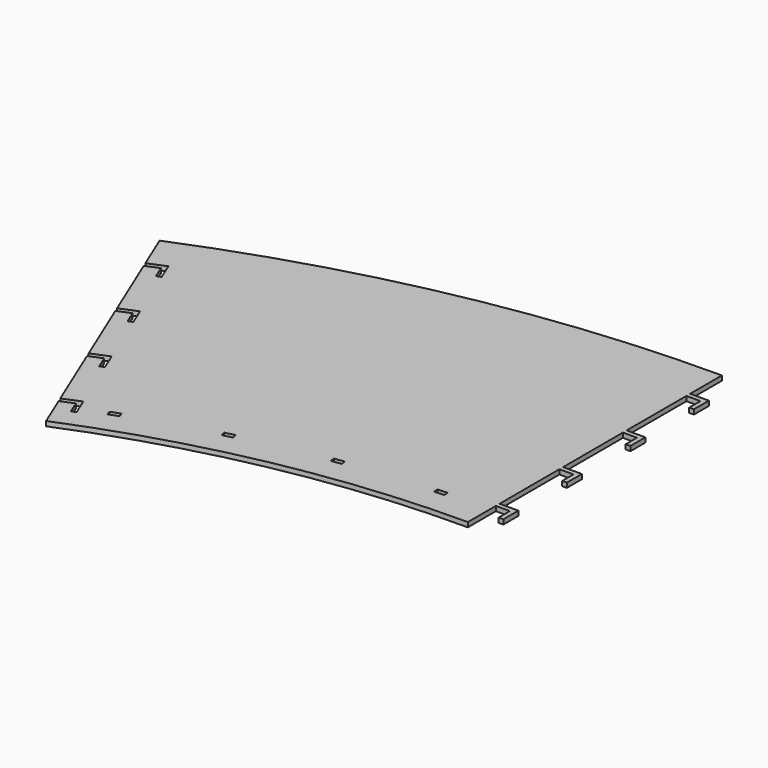
from build123d import *

# Parameters (mm, degrees)
F3_DEPTH = 3
F4_DEPTH = 3
F5_DEPTH = 3.001


with BuildPart() as f3:
    # F0 (on Top) → F3 (new body)
    with BuildSketch(Plane.XY):
        with BuildLine():
            ThreePointArc((-233.3171, 564.475152), (-118.935157, 599.10224), (0, 610.7938))
            Line((0, 610.7938), (0, 814.4002))
            ThreePointArc((0, 814.4002), (-158.581858, 798.811292), (-311.092701, 752.64136))
            Line((-311.092701, 752.64136), (-233.3171, 564.475152))
        make_face()
        Polygon((-214.805697, 592.145084), (-208.825489, 594.280408), (-207.816675, 591.455112), (-213.796883, 589.319788), align=None, mode=Mode.SUBTRACT)
        Polygon((-155.117917, 607.408719), (-155.845492, 610.319154), (-149.685071, 611.859189), (-148.957495, 608.948754), align=None, mode=Mode.SUBTRACT)
        Polygon((-94.95078, 619.670291), (-95.390136, 622.637944), (-89.108603, 623.567915), (-88.669247, 620.600262), align=None, mode=Mode.SUBTRACT)
        Polygon((-33.872704, 625.986869), (-34.019626, 628.983269), (-27.677246, 629.294254), (-27.530324, 626.297854), align=None, mode=Mode.SUBTRACT)
    extrude(amount=F3_DEPTH)

    # F2 (on Top) → F4 (join)
    with BuildSketch(Plane.XY):
        Polygon((9, 785.9494), (9, 776.9494), (12, 776.9494), (12, 788.9494), (0, 788.9494), (0, 785.9494), align=None)
        Polygon((9, 735.0478), (9, 726.0478), (12, 726.0478), (12, 738.0478), (0, 738.0478), (0, 735.0478), align=None)
        Polygon((12, 636.2446), (0, 636.2446), (0, 633.2446), (9, 633.2446), (9, 624.2446), (12, 624.2446), align=None)
        Polygon((9, 684.1462), (9, 675.1462), (12, 675.1462), (12, 687.1462), (0, 687.1462), (0, 684.1462), align=None)
    extrude(amount=F4_DEPTH)

    # F2 (on Top) → F5 (cut, through all)
    with BuildSketch(Plane.XY):
        Polygon((-227.36518, 581.489807), (-231.94906, 592.579805), (-243.039057, 587.995925), (-241.893087, 585.223425), (-233.575589, 588.661335), (-230.137679, 580.343837), align=None)
        Polygon((-285.696882, 722.614463), (-290.280762, 733.70446), (-301.37076, 729.120581), (-300.22479, 726.348081), (-291.907292, 729.785991), (-288.469382, 721.468493), align=None)
        Polygon((-251.392961, 639.621356), (-262.482958, 635.037477), (-261.336988, 632.264977), (-253.01949, 635.702887), (-249.58158, 627.385389), (-246.809081, 628.531359), align=None)
        Polygon((-280.780889, 679.306529), (-272.463391, 682.744439), (-269.025481, 674.426941), (-266.252982, 675.572911), (-270.836861, 686.662908), (-281.926859, 682.079029), align=None)
    extrude(amount=F5_DEPTH, mode=Mode.SUBTRACT)


solid = f3.part
